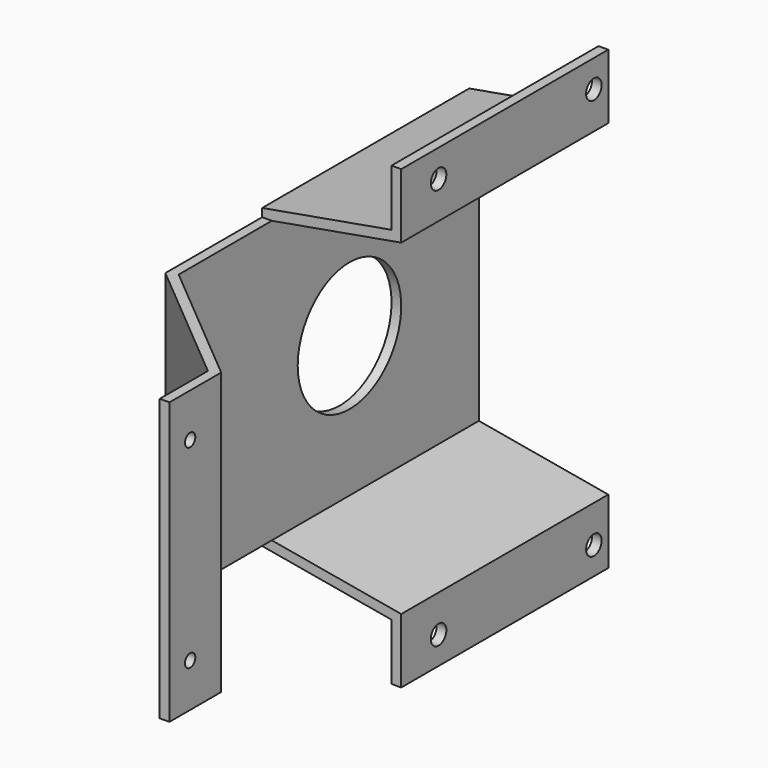
from build123d import *

# Parameters (mm, degrees)
F1_DEPTH  = 46
F2_R      = 1
F3_DEPTH  = 1.5
F5_DEPTH  = 40
F6_R      = 1.5
F7_DEPTH  = 1.5
F8_R      = 10
F9_DEPTH  = 1.5
F10_DEPTH = 1.259
F11_DEPTH = 1.259


with BuildPart() as f1:
    # F0 (on Top) → F1 (new body)
    with BuildSketch(Plane.XY):
        Polygon((-20, 74.7819926235), (-21.5, 74.7819926235), (-21.5, 16.0825311363), (-1.5, -0.6994614872), (-1.5, -10), (0, -10), (0, 0), (-20, 16.7819926235), align=None)
    extrude(amount=F1_DEPTH)

    # F2 (on face) → F3 (cut, through all)
    with BuildSketch(Plane(origin=(-1.5, 0, 0), x_dir=(0, -1, 0), z_dir=(-1, 0, 0))):
        with Locations((6, 8)):
            Circle(F2_R)
        with Locations((6, 38)):
            Circle(F2_R)
    extrude(amount=-F3_DEPTH, mode=Mode.SUBTRACT)

    # F4 (on face) → F5 (join)
    with BuildSketch(Plane(origin=(0, 74.7819926235, 0), x_dir=(-1, 0, 0), z_dir=(0, 1, 0))):
        Polygon((0, 58.2678901674), (0, 48.2678901674), (20, 44.7413505532), (21.5, 44.7413505532), (21.5, 46), (1.5, 49.5265396142), (1.5, 58.2678901674), align=None)
        Polygon((21.5, 1.2586494468), (20, 1.2586494468), (0, -2.2678901674), (0, -12.2678901674), (1.5, -12.2678901674), (1.5, -3.5265396142), (21.5, 0), align=None)
    extrude(amount=-F5_DEPTH)

    # F6 (on face) → F7 (cut, through all)
    with BuildSketch(Plane(origin=(-1.5, 0, 0), x_dir=(0, -1, 0), z_dir=(-1, 0, 0))):
        with Locations((-71.9999926235, -8)):
            Circle(F6_R)
        with Locations((-41.9999926235, -8)):
            Circle(F6_R)
        with Locations((-41.9999926235, 54)):
            Circle(F6_R)
        with Locations((-71.9999926235, 54)):
            Circle(F6_R)
    extrude(amount=-F7_DEPTH, mode=Mode.SUBTRACT)

    # F8 (on face) → F9 (cut, through all)
    with BuildSketch(Plane(origin=(-21.5, 0, 0), x_dir=(0, -1, 0), z_dir=(-1, 0, 0))):
        with Locations((-49.7819926235, 23)):
            Circle(F8_R)
    extrude(amount=-F9_DEPTH, mode=Mode.SUBTRACT)

    # F10 (cut): a face of the model
    f10_faces = [f1.faces().sort_by_distance(p)[0] for p in [
        (-10.3193093541, 8.0104582418, 0),
    ]]
    extrude(f10_faces, amount=-F10_DEPTH, mode=Mode.SUBTRACT)

    # F11 (cut): a face of the model
    f11_faces = [f1.faces().sort_by_distance(p)[0] for p in [
        (-10.3193093541, 8.0104582418, 46),
    ]]
    extrude(f11_faces, amount=-F11_DEPTH, mode=Mode.SUBTRACT)


solid = f1.part
